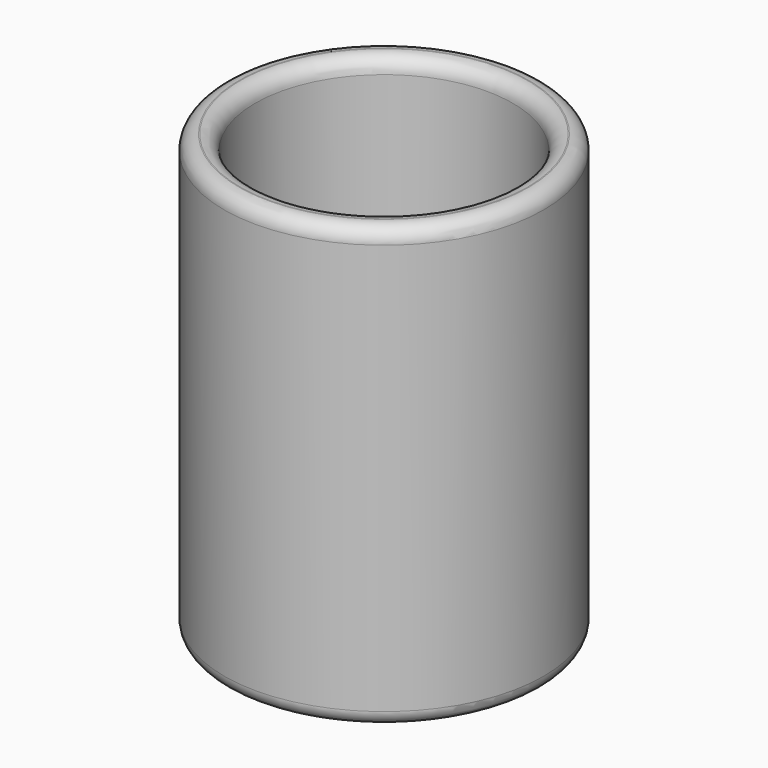
from build123d import *

# Parameters (mm, degrees)
SKETCH_R   = 27.8
SKETCH_R_2 = 22.425
PAD_DEPTH  = 76.6
FILLET_R   = 2.599887


with BuildPart() as part:
    # Sketch → Pad (new body)
    with BuildSketch(Plane.XY):
        Circle(SKETCH_R)
        Circle(SKETCH_R_2, mode=Mode.SUBTRACT)
    extrude(amount=PAD_DEPTH)

    # Fillet
    fillet_edges = [part.edges().sort_by_distance(p)[0] for p in [
        (-27.8, 0, 76.6),
        (-22.425, 0, 76.6),
        (-27.8, 0, 0),
        (-22.425, 0, 0),
    ]]
    fillet(fillet_edges, radius=FILLET_R)


solid = part.part
